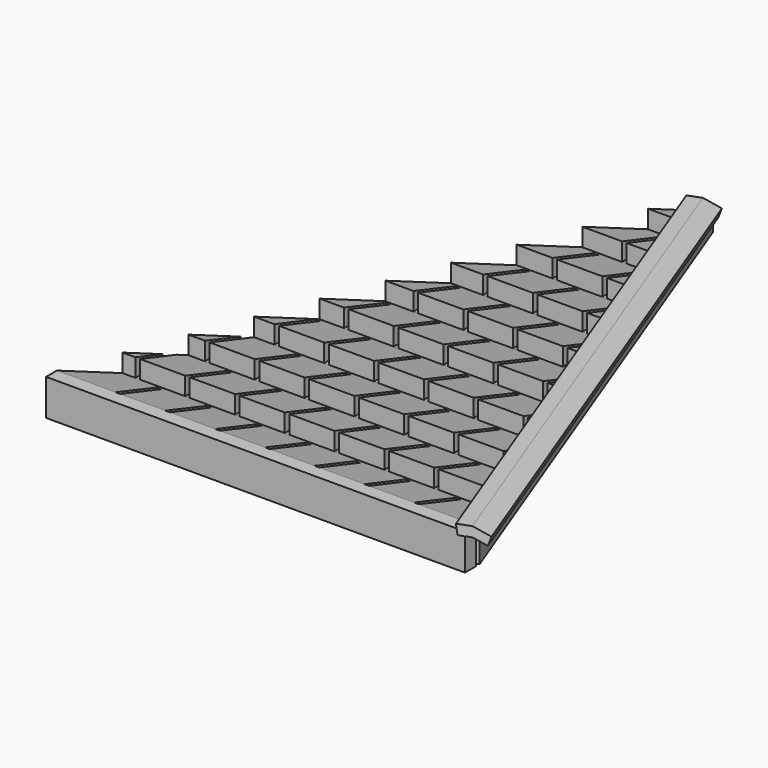
from build123d import *

# Parameters (mm, degrees)
F1_DEPTH       = 2.032
F3_DEPTH       = 12.7
F5_W           = 0.254
F5_H           = 3.13182
F6_DEPTH       = 1.27
F8_DEPTH       = 25.4
F10_DEPTH      = 31.75
F10_DEPTH_BACK = 1.016
F11_W          = 23.5139172329
F11_H          = 2.032
F12_DEPTH      = 0.762
F14_DEPTH      = 2.3838262964


with BuildPart() as f1:
    # F0 (on Top) → F1 (new body)
    with BuildSketch(Plane.XY):
        Polygon((0, 31.28264), (-11.80846, 0), (11.80846, 0), align=None)
    extrude(amount=F1_DEPTH)

    # F2 (on Right) → F3 (cut, symmetric)
    with BuildSketch(Plane.YZ):
        Polygon((3.13182, 1.016), (3.13182, 2.032), (6.26364, 1.016), (6.26364, 2.032), (9.39546, 1.016), (9.39546, 2.032), (12.52728, 1.016), (12.52728, 2.032), (15.6591, 1.016), (15.6591, 2.032), (18.79092, 1.016), (18.79092, 2.032), (21.92274, 1.016), (21.92274, 2.032), (25.05456, 1.016), (25.05456, 2.032), (28.18638, 1.016), (28.18638, 2.032), (31.3182, 1.016), (31.3182, 2.032), (31.3182, 2.9177600518), (28.18638, 2.9177600518), (0, 2.9177600518), (0, 2.032), align=None)
    extrude(amount=F3_DEPTH, both=True, mode=Mode.SUBTRACT)

    # F5 (on offset) → F6 (cut)
    with BuildSketch(Plane.XY.offset(2.286)):
        with Locations((0, 1.56591)):
            Rectangle(F5_W, F5_H)
        with Locations((2.794, 1.56591)):
            Rectangle(F5_W, F5_H)
        with Locations((5.588, 1.56591)):
            Rectangle(F5_W, F5_H)
        with Locations((-2.794, 1.56591)):
            Rectangle(F5_W, F5_H)
        with Locations((8.382, 1.56591)):
            Rectangle(F5_W, F5_H)
        with Locations((-5.588, 1.56591)):
            Rectangle(F5_W, F5_H)
        with Locations((-8.382, 1.56591)):
            Rectangle(F5_W, F5_H)
        with Locations((2.794, 7.82955)):
            Rectangle(F5_W, F5_H)
        with Locations((-5.588, 7.82955)):
            Rectangle(F5_W, F5_H)
        with Locations((5.588, 7.82955)):
            Rectangle(F5_W, F5_H)
        with Locations((0, 7.82955)):
            Rectangle(F5_W, F5_H)
        with Locations((-2.794, 7.82955)):
            Rectangle(F5_W, F5_H)
        with Locations((8.382, 7.82955)):
            Rectangle(F5_W, F5_H)
        with Locations((2.794, 14.09319)):
            Rectangle(F5_W, F5_H)
        with Locations((5.588, 14.09319)):
            Rectangle(F5_W, F5_H)
        with Locations((0, 14.09319)):
            Rectangle(F5_W, F5_H)
        with Locations((-2.794, 14.09319)):
            Rectangle(F5_W, F5_H)
        with Locations((2.794, 20.35683)):
            Rectangle(F5_W, F5_H)
        with Locations((0, 20.35683)):
            Rectangle(F5_W, F5_H)
        with Locations((-2.794, 20.35683)):
            Rectangle(F5_W, F5_H)
        with Locations((0, 26.62047)):
            Rectangle(F5_W, F5_H)
        with Locations((-8.382, 7.82955)):
            Rectangle(F5_W, F5_H)
        with Locations((-5.588, 14.09319)):
            Rectangle(F5_W, F5_H)
        with Locations((1.397, 4.69773)):
            Rectangle(F5_W, F5_H)
        with Locations((-1.397, 4.69773)):
            Rectangle(F5_W, F5_H)
        with Locations((-4.191, 4.69773)):
            Rectangle(F5_W, F5_H)
        with Locations((-6.985, 4.69773)):
            Rectangle(F5_W, F5_H)
        with Locations((-9.779, 4.69773)):
            Rectangle(F5_W, F5_H)
        with Locations((4.191, 4.69773)):
            Rectangle(F5_W, F5_H)
        with Locations((6.985, 4.69773)):
            Rectangle(F5_W, F5_H)
        with Locations((9.779, 4.69773)):
            Rectangle(F5_W, F5_H)
        with Locations((-6.985, 10.96137)):
            Rectangle(F5_W, F5_H)
        with Locations((-4.191, 10.96137)):
            Rectangle(F5_W, F5_H)
        with Locations((-1.397, 10.96137)):
            Rectangle(F5_W, F5_H)
        with Locations((1.397, 10.96137)):
            Rectangle(F5_W, F5_H)
        with Locations((4.191, 10.96137)):
            Rectangle(F5_W, F5_H)
        with Locations((6.985, 10.96137)):
            Rectangle(F5_W, F5_H)
        with Locations((-4.191, 17.22501)):
            Rectangle(F5_W, F5_H)
        with Locations((-1.397, 17.22501)):
            Rectangle(F5_W, F5_H)
        with Locations((1.397, 17.22501)):
            Rectangle(F5_W, F5_H)
        with Locations((4.191, 17.22501)):
            Rectangle(F5_W, F5_H)
        with Locations((-1.397, 23.48865)):
            Rectangle(F5_W, F5_H)
        with Locations((1.397, 23.48865)):
            Rectangle(F5_W, F5_H)
    extrude(amount=-F6_DEPTH, mode=Mode.SUBTRACT)

    # F7 (on offset) → F8 (cut)
    with BuildSketch(Plane.XY.offset(2.286)):
        Polygon((12.4195682156, 0.5387690967), (10.9939791366, 0), (11.2616126705, -0.7081613355), (12.7111228056, -0.1603518176), align=None)
    extrude(amount=-F8_DEPTH, mode=Mode.SUBTRACT)

    # F9 (on face) → F10 (join, two sides)
    with BuildSketch(Plane(origin=(1.3740111624, -3.6356489625, 0), x_dir=(0.935425832, 0.3535230018, 0), z_dir=(0.3535230018, -0.935425832, 0))) as f10_sk:
        Polygon((11.0460521402, 2.3838262964), (10.2840520809, 2.3838262964), (10.3584276512, 1.8285111633), (11.0460521402, 1.8285111633), (11.7551991716, 1.5192615101), (11.9223497465, 2.0016844854), align=None)
    extrude(amount=-F10_DEPTH)
    extrude(f10_sk.sketch, amount=F10_DEPTH_BACK)

    # F11 (on face) → F12 (join)
    with BuildSketch(Plane.XZ):
        with Locations((-0.0515013836, 1.016)):
            Rectangle(F11_W, F11_H)
    extrude(amount=F12_DEPTH)

    # F13 (on face) → F14 (join, through all)
    with BuildSketch(Plane.XY.offset(2.3838262964)):
        Polygon((0.4824183683, 29.9691547146), (-0.2303761712, 29.6997701662), (10.9802607802, 0.0362989251), (11.6870380637, 0.3216052004), align=None)
    extrude(amount=-F14_DEPTH)


solid = f1.part
